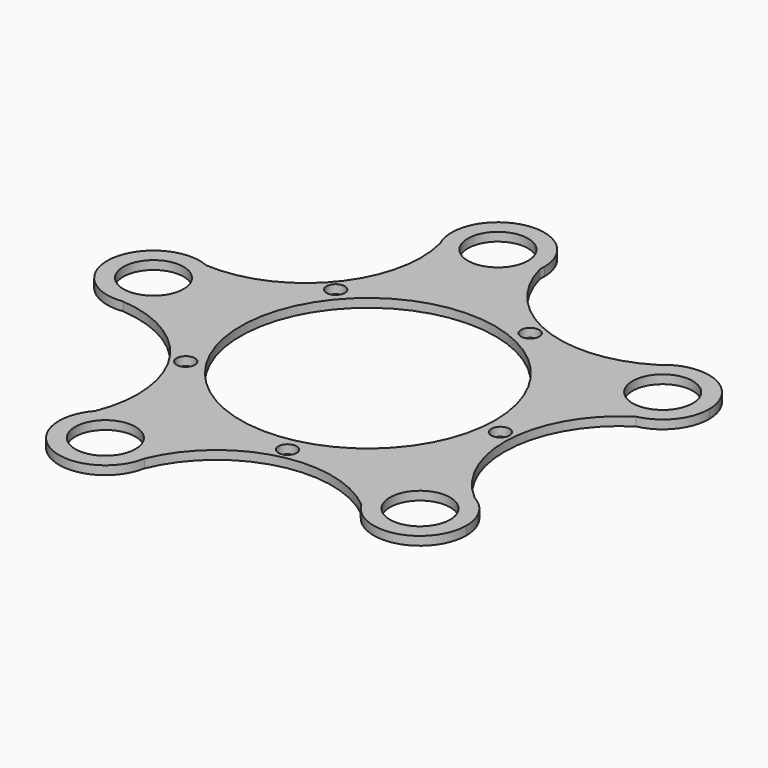
from build123d import *

# Parameters (mm, degrees)
F0_R     = 0.968937
F0_R_2   = 0.293951
F0_R_3   = 4.095338
F1_DEPTH = 0.2794


with BuildPart() as f1:
    # F0 (on Top) → F1 (new body)
    with BuildSketch(Plane.XY):
        with BuildLine():
            ThreePointArc((4.330335, -5.676164), (6.006943, -6.368025), (7.110444, -4.928592))
            ThreePointArc((7.110444, -4.928592), (6.899941, -4.164898), (6.327886, -3.616909))
            ThreePointArc((6.327886, -3.616909), (4.549982, -3.890753), (4.330335, -5.676164))
        make_face()
        with Locations((5.619878, -4.928592)):
            Circle(F0_R, mode=Mode.SUBTRACT)
        with BuildLine():
            ThreePointArc((4.330335, -5.676164), (4.549982, -3.890753), (6.327886, -3.616909))
            ThreePointArc((6.327886, -3.616909), (5.018305, -0.522851), (6.7365, 2.364362))
            ThreePointArc((6.7365, 2.364362), (5.106348, 3.124981), (5.395309, 4.900491))
            ThreePointArc((5.395309, 4.900491), (2.048002, 4.611122), (-0.166949, 7.13742))
            ThreePointArc((-0.166949, 7.13742), (-1.394085, 5.822098), (-2.993402, 6.645579))
            ThreePointArc((-2.993402, 6.645579), (-3.75257, 3.372681), (-6.83968, 2.046806))
            ThreePointArc((-6.83968, 2.046806), (-6.194158, 1.496962), (-5.952965, 0.684033))
            ThreePointArc((-5.952965, 0.684033), (-6.321654, -0.297385), (-7.245333, -0.793298))
            ThreePointArc((-7.245333, -0.793298), (-4.367218, -2.52669), (-4.060206, -5.872425))
            ThreePointArc((-4.060206, -5.872425), (-2.417795, -5.475804), (-1.460165, -6.867841))
            ThreePointArc((-1.460165, -6.867841), (-1.466251, -7.002402), (-1.48446, -7.135864))
            ThreePointArc((-1.48446, -7.135864), (1.05348, -4.934261), (4.330335, -5.676164))
        make_face()
        with Locations((-3.970255, -2.362004)):
            Circle(F0_R_2, mode=Mode.SUBTRACT)
        with Locations((1.019524, -4.505836)):
            Circle(F0_R_2, mode=Mode.SUBTRACT)
        Circle(F0_R_3, mode=Mode.SUBTRACT)
        with Locations((4.600355, -0.422755)):
            Circle(F0_R_2, mode=Mode.SUBTRACT)
        with Locations((-3.473276, 3.046037)):
            Circle(F0_R_2, mode=Mode.SUBTRACT)
        with Locations((1.823652, 4.244559)):
            Circle(F0_R_2, mode=Mode.SUBTRACT)
        with BuildLine():
            ThreePointArc((5.395309, 4.900491), (5.106348, 3.124981), (6.7365, 2.364362))
            ThreePointArc((6.7365, 2.364362), (7.583226, 2.884788), (7.914573, 3.821803))
            ThreePointArc((7.914573, 3.821803), (7.010712, 5.192046), (5.395309, 4.900491))
        make_face()
        with Locations((6.424007, 3.821803)):
            Circle(F0_R, mode=Mode.SUBTRACT)
        with BuildLine():
            ThreePointArc((-4.060206, -5.872425), (-3.607157, -8.206082), (-1.48446, -7.135864))
            ThreePointArc((-1.48446, -7.135864), (-1.466251, -7.002402), (-1.460165, -6.867841))
            ThreePointArc((-1.460165, -6.867841), (-2.417795, -5.475804), (-4.060206, -5.872425))
        make_face()
        with Locations((-2.950731, -6.867841)):
            Circle(F0_R, mode=Mode.SUBTRACT)
        with BuildLine():
            ThreePointArc((-2.993402, 6.645579), (-1.394085, 5.822098), (-0.166949, 7.13742))
            ThreePointArc((-0.166949, 7.13742), (-0.161032, 7.213907), (-0.159058, 7.290596))
            ThreePointArc((-0.159058, 7.290596), (-1.980378, 8.744002), (-2.993402, 6.645579))
        make_face()
        with Locations((-1.649624, 7.290596)):
            Circle(F0_R, mode=Mode.SUBTRACT)
        with BuildLine():
            ThreePointArc((-6.83968, 2.046806), (-8.919121, 0.894792), (-7.245333, -0.793298))
            ThreePointArc((-7.245333, -0.793298), (-6.321654, -0.297385), (-5.952965, 0.684033))
            ThreePointArc((-5.952965, 0.684033), (-6.194158, 1.496962), (-6.83968, 2.046806))
        make_face()
        with Locations((-7.443531, 0.684033)):
            Circle(F0_R, mode=Mode.SUBTRACT)
    extrude(amount=F1_DEPTH)


solid = f1.part
